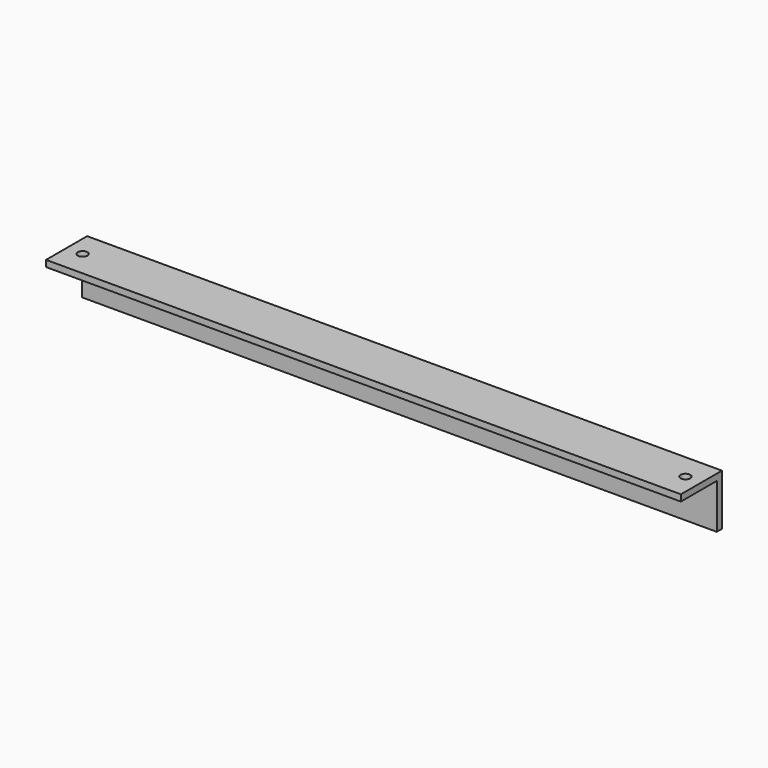
from build123d import *

# Parameters (mm, degrees)
F1_DEPTH = 314.325
F2_R     = 4.7625
F3_DEPTH = 50.801
F4_R     = 4.7625
F5_DEPTH = 6.351


with BuildPart() as f1:
    # F0 (on Right) → F1 (new body, symmetric)
    with BuildSketch(Plane.YZ):
        Polygon((0, 44.45), (0, 0), (6.35, 0), (6.35, 50.8), (-44.45, 50.8), (-44.45, 44.45), align=None)
    extrude(amount=F1_DEPTH, both=True)

    # F2 (on face) → F3 (cut, through all)
    with BuildSketch(Plane(origin=(0, 6.35, 0), x_dir=(-1, 0, 0), z_dir=(0, 1, 0))):
        with Locations((-19.05, 25.4)):
            Circle(F2_R)
        with Locations((19.05, 25.4)):
            Circle(F2_R)
    extrude(amount=-F3_DEPTH, mode=Mode.SUBTRACT)

    # F4 (on face) → F5 (cut, through all)
    with BuildSketch(Plane(origin=(0, 0, 44.45), x_dir=(1, 0, 0), z_dir=(0, 0, -1))):
        with Locations((-298.45, 19.05)):
            Circle(F4_R)
        with Locations((298.45, 19.05)):
            Circle(F4_R)
    extrude(amount=-F5_DEPTH, mode=Mode.SUBTRACT)


solid = f1.part
